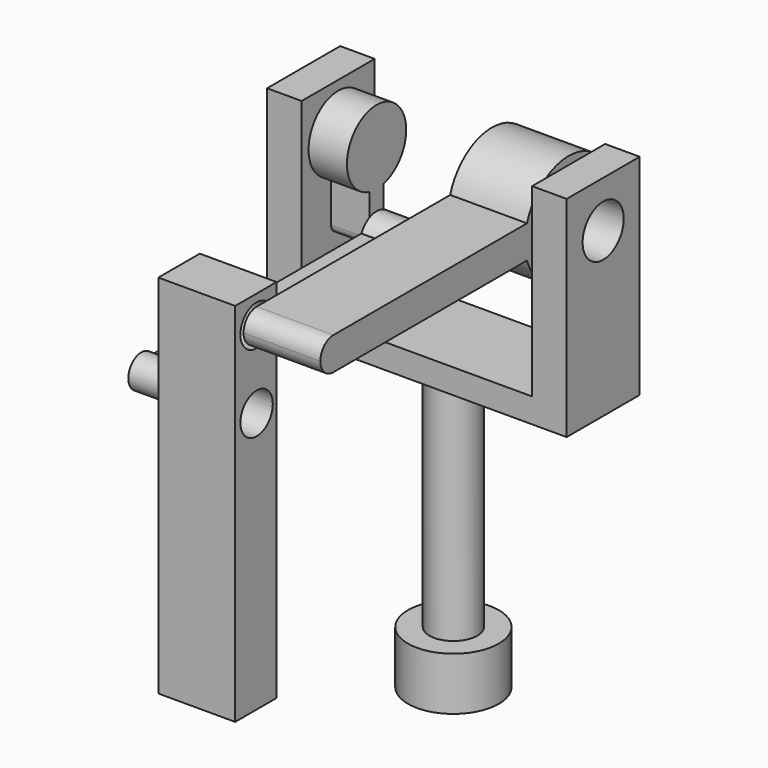
from build123d import *

# Parameters (mm, degrees)
F0_R      = 15.0168391693
F1_DEPTH  = 17.526
F2_R      = 7.913434423
F3_DEPTH  = 77.47
F4_W      = 99.0400761366
F4_H      = 30.1920697093
F5_DEPTH  = 8.128
F6_W      = 11.4200380683
F6_H      = 30.1920697093
F7_DEPTH  = 61.214
F8_R      = 8.4894563365
F9_DEPTH  = 99.0410761366
F11_DEPTH = 12.7
F13_DEPTH = 25.4
F15_DEPTH = 12.7
F16_W     = 17.1260535717
F16_H     = 121.084202081
F16_R     = 6.6931862807
F17_DEPTH = 12.7


with BuildPart() as f1:
    # F0 (on Top) → F1 (new body)
    with BuildSketch(Plane.XY):
        Circle(F0_R)
    extrude(amount=F1_DEPTH)


with BuildPart() as f3:
    # F2 (on face) → F3 (new body)
    with BuildSketch(Plane.XY.offset(17.526)):
        Circle(F2_R)
    extrude(amount=F3_DEPTH)

    # F4 (on face) → F5 (join)
    with BuildSketch(Plane.XY.offset(94.996)):
        Rectangle(F4_W, F4_H)
    extrude(amount=F5_DEPTH)

    # F6 (on face) → F7 (join)
    with BuildSketch(Plane.XY.offset(103.124)):
        with Locations((-43.8100190341, 0)):
            Rectangle(F6_W, F6_H)
        with Locations((43.8100190341, 0)):
            Rectangle(F6_W, F6_H)
    extrude(amount=F7_DEPTH)

    # F8 (on face) → F9 (cut, through all)
    with BuildSketch(Plane(origin=(-49.5200380683, 0, 0), x_dir=(0, -1, 0), z_dir=(-1, 0, 0))):
        with Locations((0, 148.9645689726)):
            Circle(F8_R)
    extrude(amount=-F9_DEPTH, mode=Mode.SUBTRACT)


with BuildPart() as f11:
    # F10 (on face) → F11 (new body)
    with BuildSketch(Plane.YZ.offset(-38.1)):
        with BuildLine():
            ThreePointArc((2.8954122681, 137.0715770523), (9.6246451316, 141.4019718585), (12.2403704609, 148.9645689726))
            ThreePointArc((12.2403704609, 148.9645689726), (-7.5625971141, 158.5892141042), (-2.8954122681, 137.0715770523))
            Line((-2.8954122681, 137.0715770523), (-2.8954122681, 157.6338106179))
            Line((-2.8954122681, 157.6338106179), (2.8954122681, 157.6338106179))
            Line((2.8954122681, 157.6338106179), (2.8954122681, 137.0715770523))
        make_face()
        with BuildLine():
            Line((-2.8954122681, 157.6338106179), (-2.8954122681, 137.0715770523))
            ThreePointArc((-2.8954122681, 137.0715770523), (0, 136.7241985117), (2.8954122681, 137.0715770523))
            Line((2.8954122681, 137.0715770523), (2.8954122681, 157.6338106179))
            Line((2.8954122681, 157.6338106179), (-2.8954122681, 157.6338106179))
        make_face()
        with BuildLine():
            ThreePointArc((2.8954122681, 137.0715770523), (0, 136.7241985117), (-2.8954122681, 137.0715770523))
            Line((-2.8954122681, 137.0715770523), (-2.8954122681, 123.3164146543))
            ThreePointArc((-2.8954122681, 123.3164146543), (0, 126.2118269224), (2.8954122681, 123.3164146543))
            Line((2.8954122681, 123.3164146543), (2.8954122681, 137.0715770523))
        make_face()
        with BuildLine():
            ThreePointArc((2.8954122681, 123.3164146543), (0, 126.2118269224), (-2.8954122681, 123.3164146543))
            Line((-2.8954122681, 123.3164146543), (2.8954122681, 123.3164146543))
        make_face()
        with BuildLine():
            Line((2.8954122681, 123.3164146543), (-2.8954122681, 123.3164146543))
            ThreePointArc((-2.8954122681, 123.3164146543), (0, 120.4210023861), (2.8954122681, 123.3164146543))
        make_face()
    extrude(amount=F11_DEPTH)


with BuildPart() as f13:
    # F12 (on face) → F13 (new body)
    with BuildSketch(Plane(origin=(38.1, 0, 0), x_dir=(0, -1, 0), z_dir=(-1, 0, 0))):
        with BuildLine():
            ThreePointArc((17.2043421821, 143.5563415289), (17.8256514212, 146.2287938703), (18.0343648072, 148.9645689726))
            ThreePointArc((18.0343648072, 148.9645689726), (17.8256514212, 151.7003440749), (17.2043421821, 154.3727964163))
            Line((17.2043421821, 154.3727964163), (-4.04444821, 154.3727964163))
            Line((-4.04444821, 154.3727964163), (-4.04444821, 143.5563415289))
            Line((-4.04444821, 143.5563415289), (17.2043421821, 143.5563415289))
        make_face()
        with BuildLine():
            ThreePointArc((17.2043421821, 154.3727964163), (17.8256514212, 151.7003440749), (18.0343648072, 148.9645689726))
            ThreePointArc((18.0343648072, 148.9645689726), (17.8256514212, 146.2287938703), (17.2043421821, 143.5563415289))
            Line((17.2043421821, 143.5563415289), (97.2095828522, 143.5563415289))
            ThreePointArc((97.2095828522, 143.5563415289), (91.8013554085, 148.9645689726), (97.2095828522, 154.3727964163))
            Line((97.2095828522, 154.3727964163), (17.2043421821, 154.3727964163))
        make_face()
        with BuildLine():
            Line((-4.04444821, 154.3727964163), (17.2043421821, 154.3727964163))
            ThreePointArc((17.2043421821, 154.3727964163), (-18.0343648072, 148.9645689726), (17.2043421821, 143.5563415289))
            Line((17.2043421821, 143.5563415289), (-4.04444821, 143.5563415289))
            Line((-4.04444821, 143.5563415289), (-4.04444821, 154.3727964163))
        make_face()
        with BuildLine():
            ThreePointArc((102.6178102959, 148.9645689726), (101.0337771518, 152.7887632722), (97.2095828522, 154.3727964163))
            Line((97.2095828522, 154.3727964163), (97.2095828522, 143.5563415289))
            ThreePointArc((97.2095828522, 143.5563415289), (101.0337771518, 145.140374673), (102.6178102959, 148.9645689726))
        make_face()
        with BuildLine():
            Line((97.2095828522, 143.5563415289), (97.2095828522, 154.3727964163))
            ThreePointArc((97.2095828522, 154.3727964163), (91.8013554085, 148.9645689726), (97.2095828522, 143.5563415289))
        make_face()
    extrude(amount=F13_DEPTH)


with BuildPart() as f15:
    # F14 (on face) → F15 (new body)
    with BuildSketch(Plane.YZ.offset(-25.4)):
        with BuildLine():
            ThreePointArc((-6.2575824752, 120.3420385718), (1.5245537782, 116.557717495), (6.92851005, 123.3164146543))
            ThreePointArc((6.92851005, 123.3164146543), (1.5245537782, 130.0751118135), (-6.2575824752, 126.2907907367))
            Line((-6.2575824752, 126.2907907367), (0, 126.2907907367))
            Line((0, 126.2907907367), (0, 120.3420385718))
            Line((0, 120.3420385718), (-6.2575824752, 120.3420385718))
        make_face()
        with BuildLine():
            Line((0, 126.2907907367), (-6.2575824752, 126.2907907367))
            ThreePointArc((-6.2575824752, 126.2907907367), (-6.92851005, 123.3164146543), (-6.2575824752, 120.3420385718))
            Line((-6.2575824752, 120.3420385718), (0, 120.3420385718))
            Line((0, 120.3420385718), (0, 126.2907907367))
        make_face()
        with BuildLine():
            ThreePointArc((-6.2575824752, 120.3420385718), (-6.92851005, 123.3164146543), (-6.2575824752, 126.2907907367))
            Line((-6.2575824752, 126.2907907367), (-92.6927243196, 126.2907907367))
            ThreePointArc((-92.6927243196, 126.2907907367), (-92.0289881779, 124.8689490029), (-91.8013554085, 123.3164146543))
            ThreePointArc((-91.8013554085, 123.3164146543), (-92.0289881779, 121.7638803056), (-92.6927243196, 120.3420385718))
            Line((-92.6927243196, 120.3420385718), (-6.2575824752, 120.3420385718))
        make_face()
        with BuildLine():
            Line((-97.2095828522, 126.2907907367), (-92.6927243196, 126.2907907367))
            ThreePointArc((-92.6927243196, 126.2907907367), (-102.6178102959, 123.3164146543), (-92.6927243196, 120.3420385718))
            Line((-92.6927243196, 120.3420385718), (-97.2095828522, 120.3420385718))
            Line((-97.2095828522, 120.3420385718), (-97.2095828522, 126.2907907367))
        make_face()
        with BuildLine():
            ThreePointArc((-91.8013554085, 123.3164146543), (-92.0289881779, 124.8689490029), (-92.6927243196, 126.2907907367))
            Line((-92.6927243196, 126.2907907367), (-97.2095828522, 126.2907907367))
            Line((-97.2095828522, 126.2907907367), (-97.2095828522, 120.3420385718))
            Line((-97.2095828522, 120.3420385718), (-92.6927243196, 120.3420385718))
            ThreePointArc((-92.6927243196, 120.3420385718), (-92.0289881779, 121.7638803056), (-91.8013554085, 123.3164146543))
        make_face()
    extrude(amount=F15_DEPTH)


with BuildPart() as f17:
    # F16 (on Right) → F17 (new body, symmetric)
    with BuildSketch(Plane.YZ):
        with Locations((-97.4983200431, 97.6485516876)):
            Rectangle(F16_W, F16_H)
        with Locations((-97.2095828522, 123.3164146543)):
            Circle(F16_R, mode=Mode.SUBTRACT)
        with Locations((-97.2095828522, 148.9645689726)):
            Circle(F16_R, mode=Mode.SUBTRACT)
    extrude(amount=F17_DEPTH, both=True)


solid = Compound([f1.part, f3.part, f11.part, f13.part, f15.part, f17.part])
